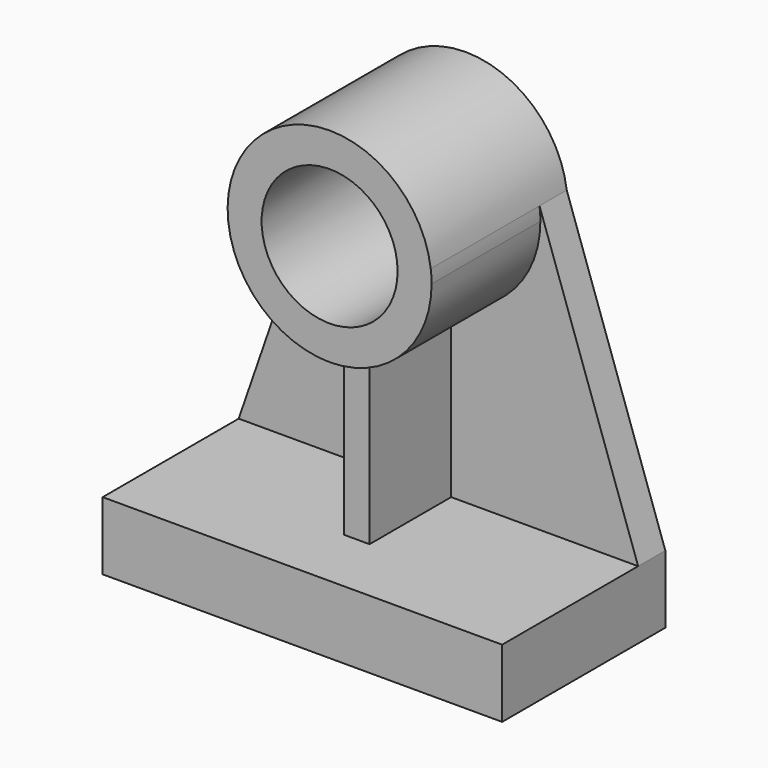
from build123d import *

# Parameters (mm, degrees)
F0_R     = 50.8
F1_DEPTH = 127
F2_DEPTH = 101.6
F3_DEPTH = 152.4
F4_DEPTH = 25.4


with BuildPart() as f1:
    # F0 (on Front) → F1 (new body)
    with BuildSketch(Plane.XZ):
        with BuildLine():
            ThreePointArc((-42.247934, -96.137584), (5.377066, -70.936803), (24.427066, -20.53524))
            ThreePointArc((24.427066, -20.53524), (24.267038, -15.599377), (23.787624, -10.684245))
            ThreePointArc((23.787624, -10.684245), (-51.772934, 55.66476), (-127.333492, -10.684245))
            ThreePointArc((-127.333492, -10.684245), (-112.067679, -67.129056), (-61.297934, -96.137584))
            ThreePointArc((-61.297934, -96.137584), (-51.772934, -96.73524), (-42.247934, -96.137584))
        make_face()
        with Locations((-51.772934, -20.53524)):
            Circle(F0_R, mode=Mode.SUBTRACT)
    extrude(amount=F1_DEPTH)

    # F0 (on Front) → F2 (join)
    with BuildSketch(Plane.XZ):
        with BuildLine():
            Line((-42.247934, -223.73524), (-42.247934, -96.137584))
            ThreePointArc((-42.247934, -96.137584), (-51.772934, -96.73524), (-61.297934, -96.137584))
            Line((-61.297934, -96.137584), (-61.297934, -223.73524))
            Line((-61.297934, -223.73524), (-42.247934, -223.73524))
        make_face()
    extrude(amount=F2_DEPTH)

    # F0 (on Front) → F3 (join)
    with BuildSketch(Plane.XZ):
        Polygon((97.452066, -274.53524), (97.452066, -223.73524), (-42.247934, -223.73524), (-61.297934, -223.73524), (-200.997934, -223.73524), (-200.997934, -274.53524), align=None)
    extrude(amount=F3_DEPTH)

    # F0 (on Front) → F4 (join)
    with BuildSketch(Plane.XZ):
        with BuildLine():
            ThreePointArc((-61.297934, -96.137584), (-112.067679, -67.129056), (-127.333492, -10.684245))
            Line((-127.333492, -10.684245), (-200.997934, -223.73524))
            Line((-200.997934, -223.73524), (-61.297934, -223.73524))
            Line((-61.297934, -223.73524), (-61.297934, -96.137584))
        make_face()
        with BuildLine():
            ThreePointArc((23.787624, -10.684245), (24.267038, -15.599377), (24.427066, -20.53524))
            ThreePointArc((24.427066, -20.53524), (5.377066, -70.936803), (-42.247934, -96.137584))
            Line((-42.247934, -96.137584), (-42.247934, -223.73524))
            Line((-42.247934, -223.73524), (97.452066, -223.73524))
            Line((97.452066, -223.73524), (23.787624, -10.684245))
        make_face()
    extrude(amount=F4_DEPTH)


solid = f1.part
